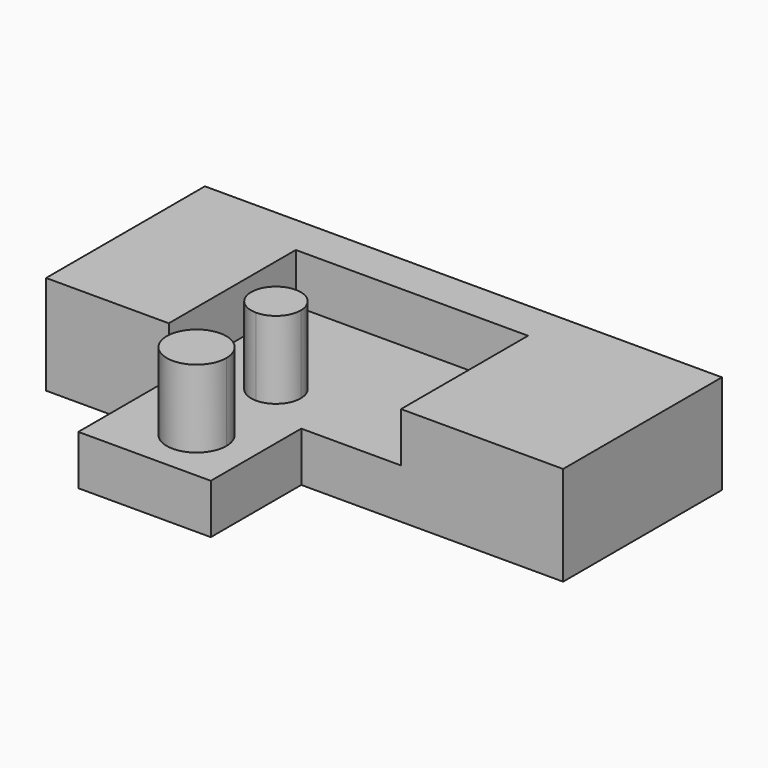
from build123d import *

# Parameters (mm, degrees)
F1_DEPTH = 25
F3_DEPTH = 25
F5_DEPTH = 39


with BuildPart() as f1:
    # F0 (on Top) → F1 (new body)
    with BuildSketch(Plane.XY):
        Polygon((-120.090559, 100), (-120.090559, 0), (-58.279246, 0), (-58.279246, 80), (58.720754, 80), (58.720754, 0), (140.4, 0), (140.4, 100), align=None)
    extrude(amount=F1_DEPTH)

    # F2 (on face) → F3 (join)
    with BuildSketch(Plane(origin=(0, 0, 0), x_dir=(1, 0, 0), z_dir=(0, 0, -1))):
        Polygon((-58.279246, 0), (-120.090559, 0), (-120.090559, -100), (140.4, -100), (140.4, 0), (8.472341, 0), (8.472341, 56.960292), (-58.279246, 56.960292), align=None)
    extrude(amount=F3_DEPTH)

    # F4 (on face) → F5 (join)
    with BuildSketch(Plane.XY):
        with BuildLine():
            ThreePointArc((-20.279246, 7.5), (-11.440411, 11.161165), (-7.779246, 20))
            ThreePointArc((-7.779246, 20), (-29.118081, 28.838835), (-20.279246, 7.5))
        make_face()
        with BuildLine():
            ThreePointArc((-5.279246, -30), (-9.672644, -19.393398), (-20.279246, -15))
            ThreePointArc((-20.279246, -15), (-30.885847, -40.606602), (-5.279246, -30))
        make_face()
    extrude(amount=F5_DEPTH)


solid = f1.part
